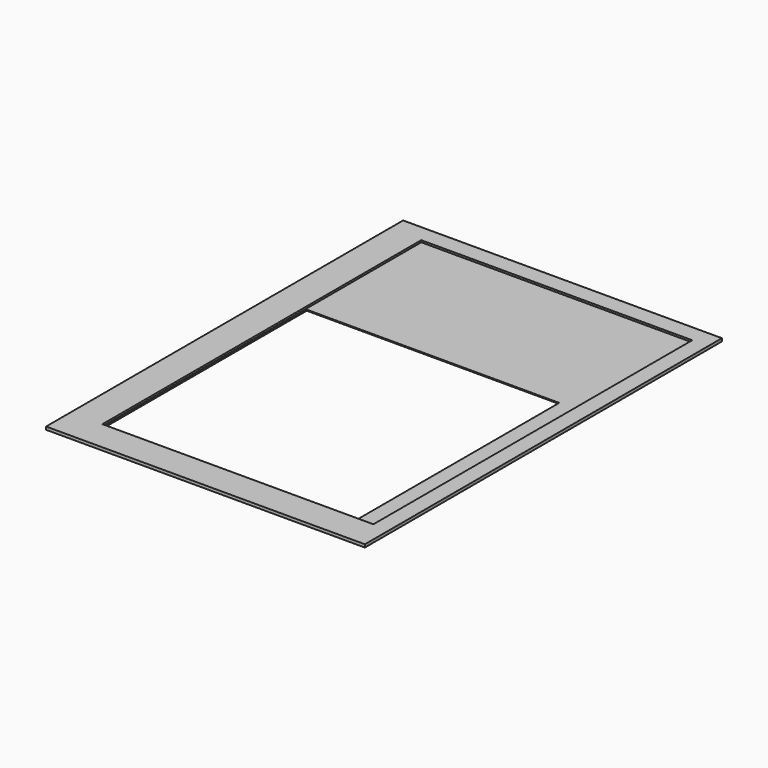
from build123d import *

# Parameters (mm, degrees)
F0_W     = 63.5
F0_H     = 88.9
F0_W_2   = 50.292
F0_H_2   = 50.292
F1_DEPTH = 0.2
F2_W     = 63.5
F2_H     = 88.9
F2_W_2   = 53.975
F2_H_2   = 79.375
F3_DEPTH = 0.381


with BuildPart() as f1:
    # F0 (on Top) → F1 (new body)
    with BuildSketch(Plane.XY):
        with Locations((0, 44.45)):
            Rectangle(F0_W, F0_H)
        with Locations((0, 31.496)):
            Rectangle(F0_W_2, F0_H_2, mode=Mode.SUBTRACT)
    extrude(amount=F1_DEPTH)

    # F2 (on face) → F3 (join)
    with BuildSketch(Plane.XY.offset(0.2)):
        with Locations((0, 44.45)):
            Rectangle(F2_W, F2_H)
        with Locations((1.5875, 45.7835)):
            Rectangle(F2_W_2, F2_H_2, mode=Mode.SUBTRACT)
    extrude(amount=F3_DEPTH)


solid = f1.part
